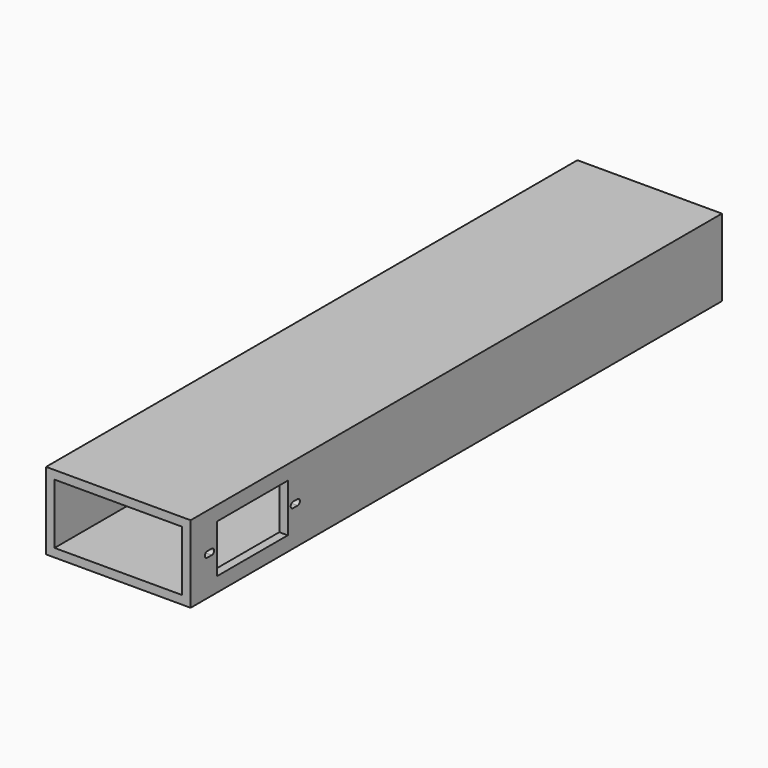
from build123d import *

# Parameters (mm, degrees)
SKETCH007_W     = 37.5
SKETCH007_H     = 172.3
PAD002_DEPTH    = 20
SKETCH006_W     = 33.1
SKETCH006_H     = 15.6
POCKET004_DEPTH = 172
SKETCH009_W     = 23
SKETCH009_H     = 12.5
POCKET003_DEPTH = 10
POCKET005_DEPTH = 5


with BuildPart() as part:
    # Sketch007 → Pad002 (new body)
    with BuildSketch(Plane.XY):
        Rectangle(SKETCH007_W, SKETCH007_H)
    extrude(amount=PAD002_DEPTH)

    # Sketch006 (on Face1 of Pad002) → Pocket004 (cut)
    with BuildSketch(Plane.XZ.offset(86.15)):
        with Locations((0, 10)):
            Rectangle(SKETCH006_W, SKETCH006_H)
    extrude(amount=-POCKET004_DEPTH, mode=Mode.SUBTRACT)

    # Sketch009 (on Face5 of Pocket004) → Pocket003 (cut)
    with BuildSketch(Plane.YZ.offset(18.75)):
        with Locations((-66.15, 10)):
            Rectangle(SKETCH009_W, SKETCH009_H)
    extrude(amount=-POCKET003_DEPTH, mode=Mode.SUBTRACT)

    # Sketch005 (on Face5 of Pocket003) → Pocket005 (cut)
    with BuildSketch(Plane.YZ.offset(18.75)):
        with BuildLine():
            ThreePointArc((-80.775673, 10.75), (-81.525673, 10), (-80.775673, 9.25))
            Line((-80.775673, 9.25), (-79.275673, 9.25))
            ThreePointArc((-79.275673, 9.25), (-78.525673, 10), (-79.275673, 10.75))
            Line((-80.775673, 10.75), (-79.275673, 10.75))
        make_face()
        with BuildLine():
            ThreePointArc((-52.955318, 10.75), (-53.705318, 10), (-52.955318, 9.25))
            Line((-52.955318, 9.25), (-51.455318, 9.25))
            ThreePointArc((-51.455318, 9.25), (-50.705318, 10), (-51.455318, 10.75))
            Line((-52.955318, 10.75), (-51.455318, 10.75))
        make_face()
    extrude(amount=-POCKET005_DEPTH, mode=Mode.SUBTRACT)


solid = part.part
